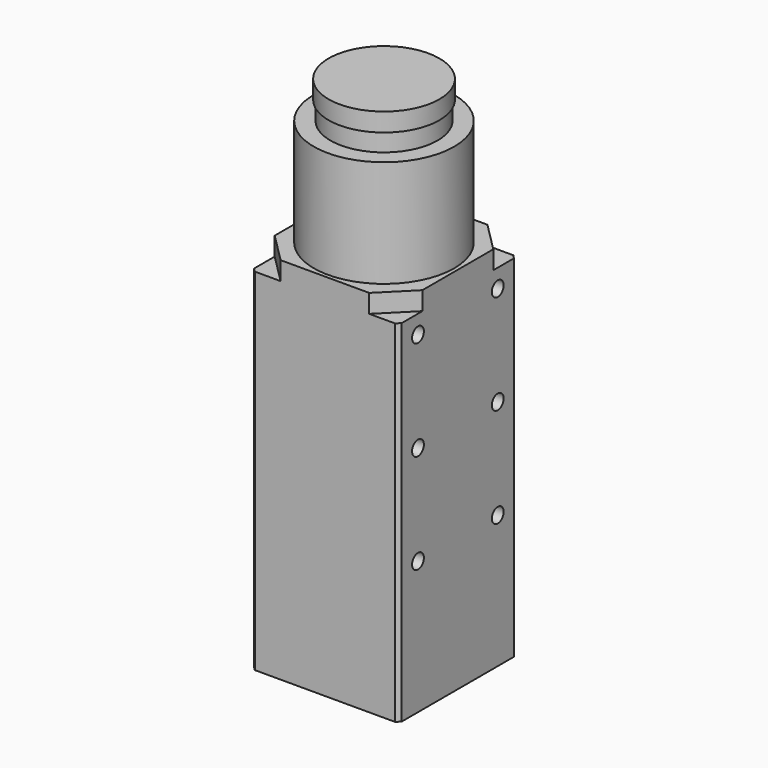
from build123d import *

# Parameters (mm, degrees)
SKETCH_R        = 19
PAD_DEPTH       = 29
SKETCH001_W     = 40
SKETCH001_H     = 40
PAD001_DEPTH    = 100
POCKET_DEPTH    = 5
CHAMFER_SIZE    = 1
SKETCH003_R     = 14.5
PAD002_DEPTH    = 5
SKETCH016_R     = 15
PAD010_DEPTH    = 5
SKETCH014_R     = 2
POCKET001_DEPTH = 5


with BuildPart() as part:
    # Sketch → Pad (new body)
    with BuildSketch(Plane.XY):
        Circle(SKETCH_R)
    extrude(amount=PAD_DEPTH)

    # Sketch001 (on Face2 of Pad) → Pad001 (join)
    with BuildSketch(Plane(origin=(0, 0, 0), x_dir=(1, 0, 0), z_dir=(0, 0, -1))):
        Rectangle(SKETCH001_W, SKETCH001_H)
    extrude(amount=PAD001_DEPTH)

    # Sketch002 (on Face4 of Pad001) → Pocket (cut)
    with BuildSketch(Plane.XY):
        Polygon((-20, 12), (-20, 20), (-12, 20), align=None)
        Polygon((12, 20), (20, 20), (20, 12), align=None)
        Polygon((20, -12), (20, -20), (12, -20), align=None)
        Polygon((-12, -20), (-20, -20), (-20, -12), align=None)
    extrude(amount=-POCKET_DEPTH, mode=Mode.SUBTRACT)

    # Chamfer
    chamfer_edges = [part.edges().sort_by_distance(p)[0] for p in [
        (-20, -20, -52.5),
        (20, -20, -52.5),
        (20, 20, -52.5),
        (-20, 20, -52.5),
    ]]
    chamfer(chamfer_edges, length=CHAMFER_SIZE)

    # Sketch003 (on Face20 of Chamfer) → Pad002 (join)
    with BuildSketch(Plane.XY.offset(29)):
        Circle(SKETCH003_R)
    extrude(amount=PAD002_DEPTH)

    # Sketch016 (on Face22 of Pad002) → Pad010 (join)
    with BuildSketch(Plane.XY.offset(34)):
        Circle(SKETCH016_R)
    extrude(amount=PAD010_DEPTH)

    # Sketch014 (on Face11 of Chamfer) → Pocket001 (cut)
    with BuildSketch(Plane.YZ.offset(20)):
        with Locations((-13.5, -10)):
            Circle(SKETCH014_R)
        with Locations((13.5, -10)):
            Circle(SKETCH014_R)
        with Locations((13.5, -37)):
            Circle(SKETCH014_R)
        with Locations((-13.5, -37)):
            Circle(SKETCH014_R)
        with Locations((13.5, -64)):
            Circle(SKETCH014_R)
        with Locations((-13.5, -64)):
            Circle(SKETCH014_R)
    extrude(amount=-POCKET001_DEPTH, mode=Mode.SUBTRACT)


solid = part.part
